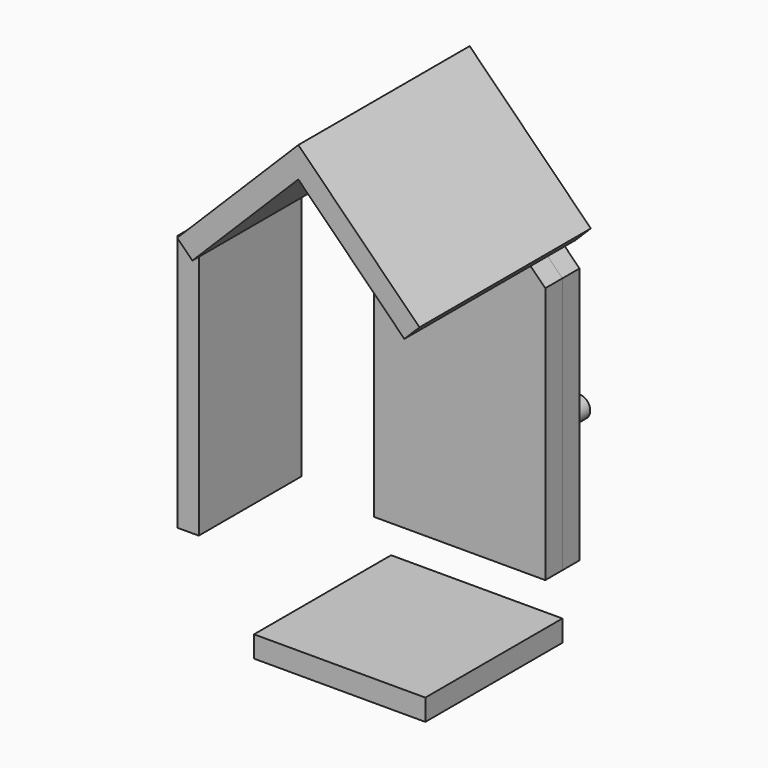
from build123d import *

# Parameters (mm, degrees)
F0_W     = 101.6
F0_H     = 12.7
F1_DEPTH = 101.6
F0_W_2   = 12.7
F0_H_2   = 152.4
F2_DEPTH = 76.2
F0_R     = 6.35
F0_R_2   = 22.225
F3_DEPTH = 12.7
F4_DEPTH = 12.7
F5_DEPTH = 127
F6_DEPTH = 76.2


with BuildPart() as f1:
    # F0 (on Front) → F1 (new body)
    with BuildSketch(Plane.XZ):
        with Locations((-7.709433, -95.594212)):
            Rectangle(F0_W, F0_H)
    extrude(amount=F1_DEPTH)


with BuildPart() as f2:
    # F0 (on Front) → F2 (new body)
    with BuildSketch(Plane.XZ):
        with Locations((-117.947159, 10.863919)):
            Rectangle(F0_W_2, F0_H_2)
    extrude(amount=F2_DEPTH)


with BuildPart() as f3:
    # F0 (on Front) → F3 (new body)
    with BuildSketch(Plane.XZ):
        Polygon((-7.709433, 88.338077), (-58.509433, 88.338077), (-58.509433, -64.061923), (43.090567, -64.061923), (43.090567, 88.338077), align=None)
        with Locations((-7.709433, -26.072249)):
            Circle(F0_R, mode=Mode.SUBTRACT)
        with Locations((-7.709433, 40.713077)):
            Circle(F0_R_2, mode=Mode.SUBTRACT)
        Polygon((-7.709433, 139.138077), (-58.509433, 88.338077), (-7.709433, 88.338077), align=None)
        Polygon((-7.709433, 139.138077), (-7.709433, 88.338077), (43.090567, 88.338077), align=None)
        with Locations((-7.709433, 40.713077)):
            Circle(F0_R_2)
        with Locations((-7.709433, -26.072249)):
            Circle(F0_R)
    extrude(amount=F3_DEPTH)


with BuildPart() as f4:
    # F0 (on Front) → F4 (new body)
    with BuildSketch(Plane.XZ):
        Polygon((-7.709433, 139.138077), (-7.709433, 88.338077), (43.090567, 88.338077), align=None)
        Polygon((-7.709433, 139.138077), (-58.509433, 88.338077), (-7.709433, 88.338077), align=None)
        Polygon((-7.709433, 88.338077), (-58.509433, 88.338077), (-58.509433, -64.061923), (43.090567, -64.061923), (43.090567, 88.338077), align=None)
        with Locations((-7.709433, -26.072249)):
            Circle(F0_R, mode=Mode.SUBTRACT)
        with Locations((-7.709433, 40.713077)):
            Circle(F0_R_2, mode=Mode.SUBTRACT)
    extrude(amount=-F4_DEPTH)


with BuildPart() as f5:
    # F0 (on Front) → F5 (new body)
    with BuildSketch(Plane.XZ):
        Polygon((-11.901485, 191.718698), (-83.743534, 119.876649), (-74.763278, 110.896393), (-11.901485, 173.758186), (50.960308, 110.896393), (59.940564, 119.876649), align=None)
    extrude(amount=F5_DEPTH)


with BuildPart() as f6:
    # F0 (on Front) → F6 (new body)
    with BuildSketch(Plane.XZ):
        with Locations((-7.709433, -26.072249)):
            Circle(F0_R)
    extrude(amount=-F6_DEPTH)


solid = Compound([f1.part, f2.part, f3.part, f4.part, f5.part, f6.part])
